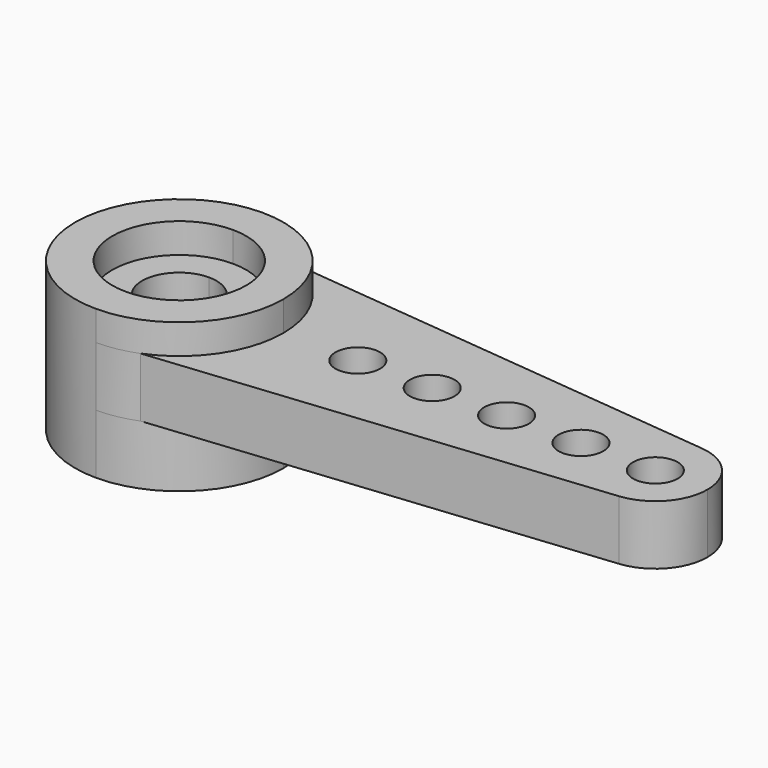
from build123d import *

# Parameters (mm, degrees)
PAD033_DEPTH        = 2
PAD047_DEPTH        = 1
PAD048_DEPTH        = 2
SKETCH058_R         = 2.25
POCKET048_DEPTH     = 3
REVOLUTION001_ANGLE = -180


with BuildPart() as part:
    # Sketch091 → Pad033 (new body)
    with BuildSketch(Plane.XY):
        with BuildLine():
            ThreePointArc((1.2990381057, 3.25), (0.6614378278, 3.4369317712), (0, 3.5))
            Line((0, 3.5), (0, 1.25))
            ThreePointArc((1.25, 0), (0.8838834765, 0.8838834765), (0, 1.25))
            Line((1.25, 0), (5.25, 0))
            ThreePointArc((6.75, 0), (6, 0.75), (5.25, 0))
            Line((6.75, 0), (7.75, 0))
            ThreePointArc((9.25, 0), (8.5, 0.75), (7.75, 0))
            Line((9.25, 0), (10.25, 0))
            ThreePointArc((11.75, 0), (11, 0.75), (10.25, 0))
            Line((11.75, 0), (12.75, 0))
            ThreePointArc((14.25, 0), (13.5, 0.75), (12.75, 0))
            Line((14.25, 0), (15.25, 0))
            ThreePointArc((16.75, 0), (16, 0.75), (15.25, 0))
            Line((16.75, 0), (17.75, 0))
            ThreePointArc((17.75, 0), (17.2983689647, 1.1733448051), (16.1765851067, 1.7410679769))
            Line((1.2990381057, 3.25), (16.1765851067, 1.7410679769))
        make_face()
    extrude(amount=PAD033_DEPTH)

    # Sketch092 → Pad047 (join)
    with BuildSketch(Plane.XY.offset(2)):
        with BuildLine():
            ThreePointArc((3.5, 0), (2.4748737342, 2.4748737342), (0, 3.5))
            Line((0, 3.5), (0, 2.25))
            ThreePointArc((2.25, 0), (1.5909902577, 1.5909902577), (0, 2.25))
            Line((2.25, 0), (3.5, 0))
        make_face()
    extrude(amount=PAD047_DEPTH)

    # Sketch093 → Pad048 (join)
    with BuildSketch(Plane.XY):
        with BuildLine():
            ThreePointArc((3.5, 0), (2.4748737342, 2.4748737342), (0, 3.5))
            Line((0, 3.5), (0, 1.25))
            ThreePointArc((1.25, 0), (0.8838834765, 0.8838834765), (0, 1.25))
            Line((3.5, 0), (1.25, 0))
        make_face()
    extrude(amount=-PAD048_DEPTH)

    # Sketch058 → Pocket048 (cut)
    with BuildSketch(Plane.XY.offset(-2)):
        Circle(SKETCH058_R)
    extrude(amount=POCKET048_DEPTH, mode=Mode.SUBTRACT)

    # Mirrored020: part across Sketch058 H_Axis


with BuildPart() as part_1:
    add(part.part)
    add(part.part.mirror(Plane(origin=(0, 0, -2), x_dir=(0, 0, 1), z_dir=(0, 1, 0))))

    # Mirrored020 Face3 → Revolution001 (revolve)
    with BuildSketch(Plane(origin=(0, -2.7198275862, 0.6379310345), x_dir=(0, 1, 0), z_dir=(-1, 0, 0))):
        Polygon((0.4698275862, 2.6379310345), (-0.7801724138, 2.6379310345), (-0.7801724138, -2.3620689655), (0.4698275862, -2.3620689655), (0.4698275862, -1.3620689655), (1.4698275862, -1.3620689655), (1.4698275862, -0.3620689655), (0.4698275862, -0.3620689655), align=None)
    revolve(axis=Axis((0, 0, 0), (0, 0, 1)), revolution_arc=REVOLUTION001_ANGLE)


with BuildPart() as part_2:
    # Body021 placement: moved
    add(part_1.part.moved(Location((0, 0, 7))))


solid = part_2.part
